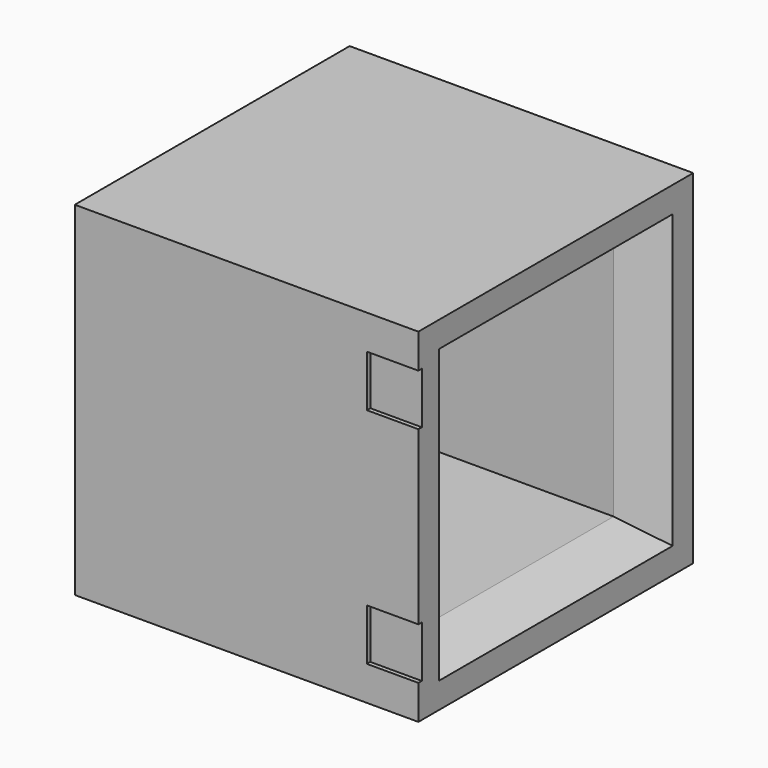
from build123d import *

# Parameters (mm, degrees)
F0_W     = 200
F0_H     = 200
F1_DEPTH = 200
F2_W     = 170
F2_H     = 170
F3_DEPTH = 25
F3_TAPER = 25
F4_W     = 146.6846170923
F4_H     = 146.6846170923
F5_DEPTH = 150
F6_W     = 30
F6_H     = 30
F7_DEPTH = 2.5


with BuildPart() as f1:
    # F0 (on Top) → F1 (new body)
    with BuildSketch(Plane.XY):
        with Locations((100, 100)):
            Rectangle(F0_W, F0_H)
    extrude(amount=F1_DEPTH)

    # F2 (on face) → F3 (cut)
    with BuildSketch(Plane.YZ.offset(200)):
        with Locations((100, 100)):
            Rectangle(F2_W, F2_H)
    extrude(amount=-F3_DEPTH, taper=F3_TAPER, mode=Mode.SUBTRACT)

    # F4 (on face) → F5 (cut)
    with BuildSketch(Plane.YZ.offset(175)):
        with Locations((100, 100)):
            Rectangle(F4_W, F4_H)
    extrude(amount=-F5_DEPTH, mode=Mode.SUBTRACT)

    # F6 (on face) → F7 (cut)
    with BuildSketch(Plane.XZ):
        with Locations((185, 165)):
            Rectangle(F6_W, F6_H)
        with Locations((185, 35)):
            Rectangle(F6_W, F6_H)
    extrude(amount=-F7_DEPTH, mode=Mode.SUBTRACT)


solid = f1.part
